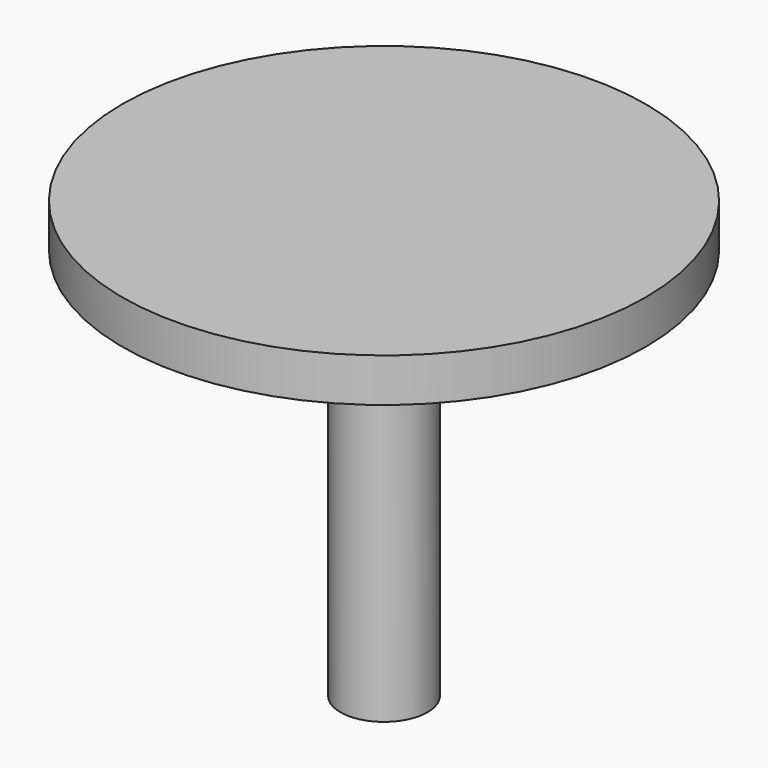
from build123d import *

# Parameters (mm, degrees)
SKETCH_R     = 5
PAD_DEPTH    = 45
SKETCH001_R  = 30
PAD001_DEPTH = 5


with BuildPart() as part:
    # Sketch → Pad (new body)
    with BuildSketch(Plane.XY):
        Circle(SKETCH_R)
    extrude(amount=PAD_DEPTH)

    # Sketch001 (on Face3 of Pad) → Pad001 (join)
    with BuildSketch(Plane.XY.offset(45)):
        Circle(SKETCH001_R)
    extrude(amount=PAD001_DEPTH)


solid = part.part
